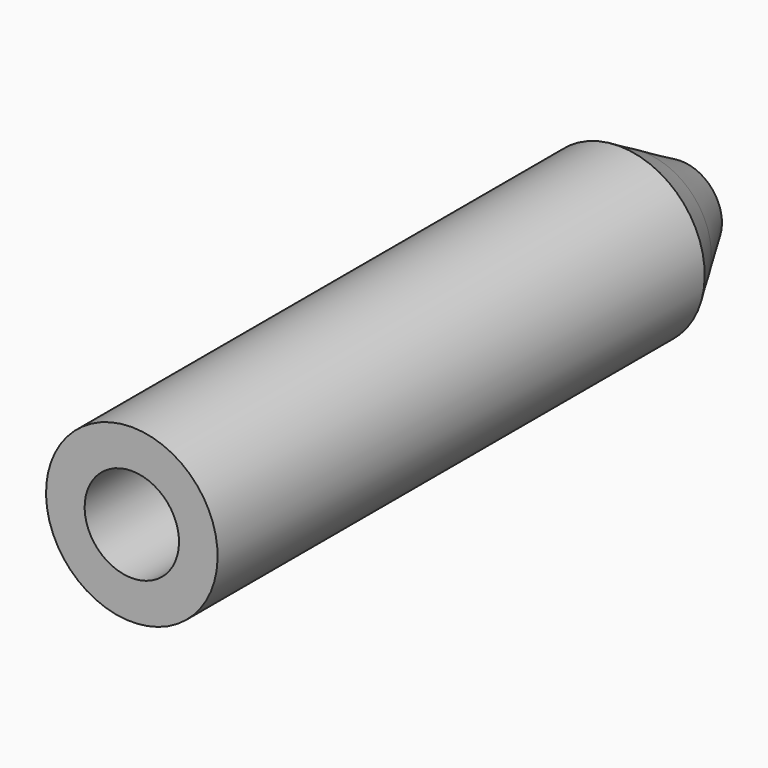
from build123d import *


with BuildPart() as f1:
    # F0 (on Right) → F1 (revolve)
    with BuildSketch(Plane.YZ):
        Polygon((35.489637, 5), (0, 5), (0, 2.75), (36.5, 2.75), (37.221688, 4), align=None)
        Polygon((40, 2.395941), (37.221688, 4), (36.5, 2.75), (38.087713, 0), (40, 0), align=None)
    revolve(axis=Axis((0, 39.043857, 0), (0, -1, 0)))


solid = f1.part
